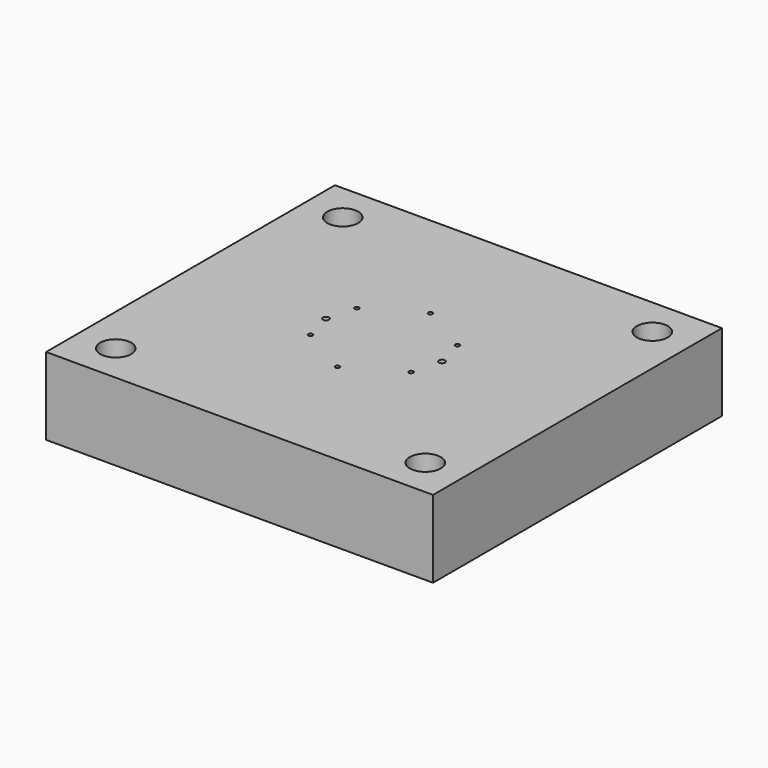
from build123d import *

# Parameters (mm, degrees)
F0_W     = 750
F0_H     = 700
F0_R     = 30
F0_R_2   = 4.25
F0_R_3   = 6
F1_DEPTH = 150
F2_DEPTH = 130
F3_DEPTH = 40
F6_R     = 50.5
F6_R_2   = 30
F7_DEPTH = 75


with BuildPart() as f1:
    # F0 (on Top) → F1 (new body)
    with BuildSketch(Plane.XY):
        Rectangle(F0_W, F0_H)
        with Locations((-300, -275)):
            Circle(F0_R, mode=Mode.SUBTRACT)
        with Locations((-97.427858, -56.25)):
            Circle(F0_R_2, mode=Mode.SUBTRACT)
        with Locations((300, -275)):
            Circle(F0_R, mode=Mode.SUBTRACT)
        with Locations((0, -112.5)):
            Circle(F0_R_2, mode=Mode.SUBTRACT)
        with Locations((97.427858, -56.25)):
            Circle(F0_R_2, mode=Mode.SUBTRACT)
        with Locations((-112.5, 0)):
            Circle(F0_R_3, mode=Mode.SUBTRACT)
        with Locations((-97.427858, 56.25)):
            Circle(F0_R_2, mode=Mode.SUBTRACT)
        with Locations((-300, 275)):
            Circle(F0_R, mode=Mode.SUBTRACT)
        with Locations((112.5, 0)):
            Circle(F0_R_3, mode=Mode.SUBTRACT)
        with Locations((97.427858, 56.25)):
            Circle(F0_R_2, mode=Mode.SUBTRACT)
        with Locations((0, 112.5)):
            Circle(F0_R_2, mode=Mode.SUBTRACT)
        with Locations((300, 275)):
            Circle(F0_R, mode=Mode.SUBTRACT)
        with Locations((-112.5, 0)):
            Circle(F0_R_3)
        with Locations((-97.427858, -56.25)):
            Circle(F0_R_2)
        with Locations((-97.427858, 56.25)):
            Circle(F0_R_2)
        with Locations((0, 112.5)):
            Circle(F0_R_2)
        with Locations((112.5, 0)):
            Circle(F0_R_3)
        with Locations((97.427858, -56.25)):
            Circle(F0_R_2)
        with Locations((0, -112.5)):
            Circle(F0_R_2)
    extrude(amount=-F1_DEPTH)

    # F0 (on Top) → F3 (cut)
    with BuildSketch(Plane.XY):
        with Locations((-112.5, 0)):
            Circle(F0_R_3)
        with Locations((-97.427858, 56.25)):
            Circle(F0_R_2)
        with Locations((0, 112.5)):
            Circle(F0_R_2)
        with Locations((97.427858, 56.25)):
            Circle(F0_R_2)
        with Locations((112.5, 0)):
            Circle(F0_R_3)
        with Locations((97.427858, -56.25)):
            Circle(F0_R_2)
        with Locations((0, -112.5)):
            Circle(F0_R_2)
        with Locations((-97.427858, -56.25)):
            Circle(F0_R_2)
    extrude(amount=-F3_DEPTH, mode=Mode.SUBTRACT)


with BuildPart() as f2:
    # F0 (on Top) → F2 (new body)
    with BuildSketch(Plane.XY):
        Rectangle(F0_W, F0_H)
        with Locations((-300, -275)):
            Circle(F0_R, mode=Mode.SUBTRACT)
        with Locations((-97.427858, -56.25)):
            Circle(F0_R_2, mode=Mode.SUBTRACT)
        with Locations((300, -275)):
            Circle(F0_R, mode=Mode.SUBTRACT)
        with Locations((0, -112.5)):
            Circle(F0_R_2, mode=Mode.SUBTRACT)
        with Locations((97.427858, -56.25)):
            Circle(F0_R_2, mode=Mode.SUBTRACT)
        with Locations((-112.5, 0)):
            Circle(F0_R_3, mode=Mode.SUBTRACT)
        with Locations((-97.427858, 56.25)):
            Circle(F0_R_2, mode=Mode.SUBTRACT)
        with Locations((-300, 275)):
            Circle(F0_R, mode=Mode.SUBTRACT)
        with Locations((112.5, 0)):
            Circle(F0_R_3, mode=Mode.SUBTRACT)
        with Locations((97.427858, 56.25)):
            Circle(F0_R_2, mode=Mode.SUBTRACT)
        with Locations((0, 112.5)):
            Circle(F0_R_2, mode=Mode.SUBTRACT)
        with Locations((300, 275)):
            Circle(F0_R, mode=Mode.SUBTRACT)
        Rectangle(F0_W, F0_H)
        with Locations((-300, -275)):
            Circle(F0_R, mode=Mode.SUBTRACT)
        with Locations((-97.427858, -56.25)):
            Circle(F0_R_2, mode=Mode.SUBTRACT)
        with Locations((300, -275)):
            Circle(F0_R, mode=Mode.SUBTRACT)
        with Locations((0, -112.5)):
            Circle(F0_R_2, mode=Mode.SUBTRACT)
        with Locations((97.427858, -56.25)):
            Circle(F0_R_2, mode=Mode.SUBTRACT)
        with Locations((-112.5, 0)):
            Circle(F0_R_3, mode=Mode.SUBTRACT)
        with Locations((-97.427858, 56.25)):
            Circle(F0_R_2, mode=Mode.SUBTRACT)
        with Locations((-300, 275)):
            Circle(F0_R, mode=Mode.SUBTRACT)
        with Locations((112.5, 0)):
            Circle(F0_R_3, mode=Mode.SUBTRACT)
        with Locations((97.427858, 56.25)):
            Circle(F0_R_2, mode=Mode.SUBTRACT)
        with Locations((0, 112.5)):
            Circle(F0_R_2, mode=Mode.SUBTRACT)
        with Locations((300, 275)):
            Circle(F0_R, mode=Mode.SUBTRACT)
        Rectangle(F0_W, F0_H)
        with Locations((-300, -275)):
            Circle(F0_R, mode=Mode.SUBTRACT)
        with Locations((-97.427858, -56.25)):
            Circle(F0_R_2, mode=Mode.SUBTRACT)
        with Locations((300, -275)):
            Circle(F0_R, mode=Mode.SUBTRACT)
        with Locations((0, -112.5)):
            Circle(F0_R_2, mode=Mode.SUBTRACT)
        with Locations((97.427858, -56.25)):
            Circle(F0_R_2, mode=Mode.SUBTRACT)
        with Locations((-112.5, 0)):
            Circle(F0_R_3, mode=Mode.SUBTRACT)
        with Locations((-97.427858, 56.25)):
            Circle(F0_R_2, mode=Mode.SUBTRACT)
        with Locations((-300, 275)):
            Circle(F0_R, mode=Mode.SUBTRACT)
        with Locations((112.5, 0)):
            Circle(F0_R_3, mode=Mode.SUBTRACT)
        with Locations((97.427858, 56.25)):
            Circle(F0_R_2, mode=Mode.SUBTRACT)
        with Locations((0, 112.5)):
            Circle(F0_R_2, mode=Mode.SUBTRACT)
        with Locations((300, 275)):
            Circle(F0_R, mode=Mode.SUBTRACT)
        Rectangle(F0_W, F0_H)
        with Locations((-300, -275)):
            Circle(F0_R, mode=Mode.SUBTRACT)
        with Locations((-97.427858, -56.25)):
            Circle(F0_R_2, mode=Mode.SUBTRACT)
        with Locations((300, -275)):
            Circle(F0_R, mode=Mode.SUBTRACT)
        with Locations((0, -112.5)):
            Circle(F0_R_2, mode=Mode.SUBTRACT)
        with Locations((97.427858, -56.25)):
            Circle(F0_R_2, mode=Mode.SUBTRACT)
        with Locations((-112.5, 0)):
            Circle(F0_R_3, mode=Mode.SUBTRACT)
        with Locations((-97.427858, 56.25)):
            Circle(F0_R_2, mode=Mode.SUBTRACT)
        with Locations((-300, 275)):
            Circle(F0_R, mode=Mode.SUBTRACT)
        with Locations((112.5, 0)):
            Circle(F0_R_3, mode=Mode.SUBTRACT)
        with Locations((97.427858, 56.25)):
            Circle(F0_R_2, mode=Mode.SUBTRACT)
        with Locations((0, 112.5)):
            Circle(F0_R_2, mode=Mode.SUBTRACT)
        with Locations((300, 275)):
            Circle(F0_R, mode=Mode.SUBTRACT)
    extrude(amount=-F2_DEPTH)


with BuildPart() as f2_1:
    # F4: moved
    add(f2.part.moved(Location((0, 0, -20))))

    # F5: union F1
    add(f1.part)

    # F6 (on face) → F7 (cut)
    with BuildSketch(Plane(origin=(0, 0, -150), x_dir=(1, 0, 0), z_dir=(0, 0, -1))):
        with Locations((-300, 275)):
            Circle(F6_R)
        with Locations((-300, 275)):
            Circle(F6_R_2, mode=Mode.SUBTRACT)
        with Locations((-300, -275)):
            Circle(F6_R)
        with Locations((-300, -275)):
            Circle(F6_R_2, mode=Mode.SUBTRACT)
        with Locations((300, -275)):
            Circle(F6_R)
        with Locations((300, -275)):
            Circle(F6_R_2, mode=Mode.SUBTRACT)
        with Locations((300, 275)):
            Circle(F6_R)
        with Locations((300, 275)):
            Circle(F6_R_2, mode=Mode.SUBTRACT)
    extrude(amount=-F7_DEPTH, mode=Mode.SUBTRACT)


solid = f2_1.part
